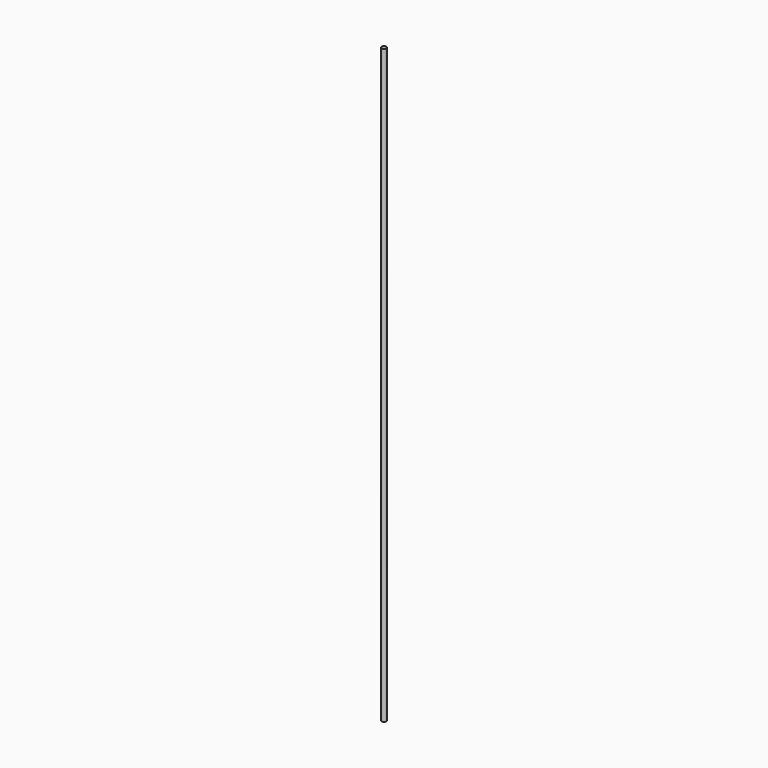
from build123d import *

# Parameters (mm, degrees)
CYLINDER_R     = 4
CYLINDER_DEPTH = 1000


with BuildPart() as part:
    # Cylinder → Cylinder (new body)
    with BuildSketch(Plane.XY):
        Circle(CYLINDER_R)
    extrude(amount=CYLINDER_DEPTH)


solid = part.part
